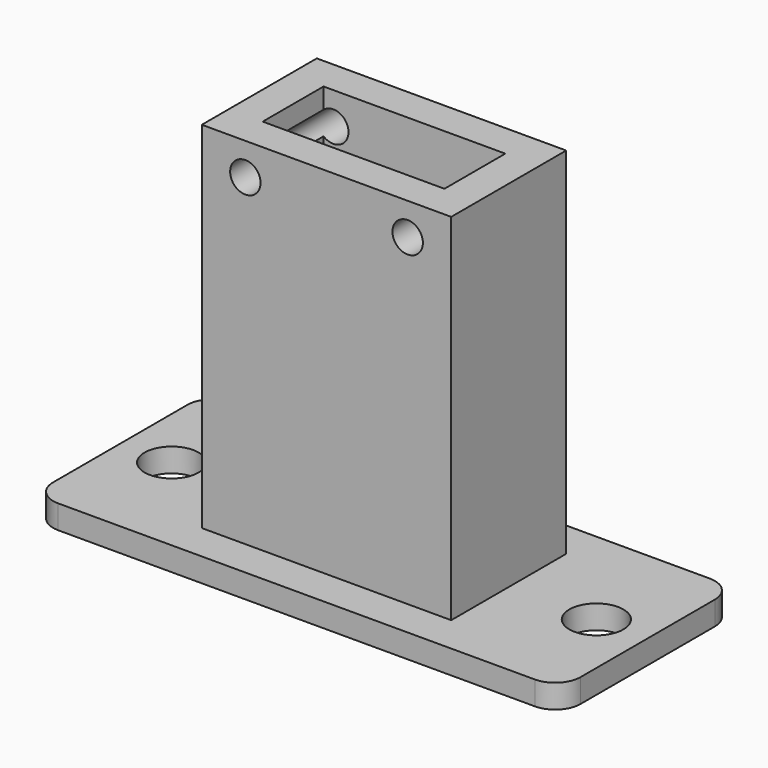
from build123d import *

# Parameters (mm, degrees)
F0_W      = 31.19
F0_H      = 12.93
F1_DEPTH  = 1.4
F2_R      = 1.6
F3_DEPTH  = 1.401
F4_R      = 1.5
F5_W      = 8.7
F5_H      = 3.4
F6_DEPTH  = 1.401
F7_W      = 14.75
F7_H      = 8.5
F8_DEPTH  = 21
F9_W      = 10.75
F9_H      = 4.5
F10_DEPTH = 21
F11_R     = 0.9
F12_DEPTH = 10.716


with BuildPart() as f1:
    # F0 (on Top) → F1 (new body)
    with BuildSketch(Plane.XY):
        Rectangle(F0_W, F0_H)
    extrude(amount=F1_DEPTH)

    # F2 (on face) → F3 (cut, through all)
    with BuildSketch(Plane.XY.offset(1.4)):
        with Locations((-12.56, 0)):
            Circle(F2_R)
        with Locations((12.56, 0)):
            Circle(F2_R)
    extrude(amount=-F3_DEPTH, mode=Mode.SUBTRACT)

    # F4
    f4_edges = [f1.edges().sort_by_distance(p)[0] for p in [
        (15.595, -6.465, 0.7),
        (15.595, 6.465, 0.7),
        (-15.595, -6.465, 0.7),
        (-15.595, 6.465, 0.7),
    ]]
    fillet(f4_edges, radius=F4_R)

    # F5 (on face) → F6 (cut, through all)
    with BuildSketch(Plane.XY.offset(1.4)):
        Rectangle(F5_W, F5_H)
    extrude(amount=-F6_DEPTH, mode=Mode.SUBTRACT)

    # F7 (on face) → F8 (join)
    with BuildSketch(Plane.XY.offset(1.4)):
        Rectangle(F7_W, F7_H)
    extrude(amount=F8_DEPTH)

    # F9 (on face) → F10 (cut, through all)
    with BuildSketch(Plane.XY.offset(22.4)):
        Rectangle(F9_W, F9_H)
    extrude(amount=-F10_DEPTH, mode=Mode.SUBTRACT)

    # F11 (on face) → F12 (cut, through all)
    with BuildSketch(Plane.XZ.offset(4.25)):
        with Locations((-4.8, 20.5)):
            Circle(F11_R)
        with Locations((4.8, 20.5)):
            Circle(F11_R)
    extrude(amount=-F12_DEPTH, mode=Mode.SUBTRACT)


solid = f1.part
